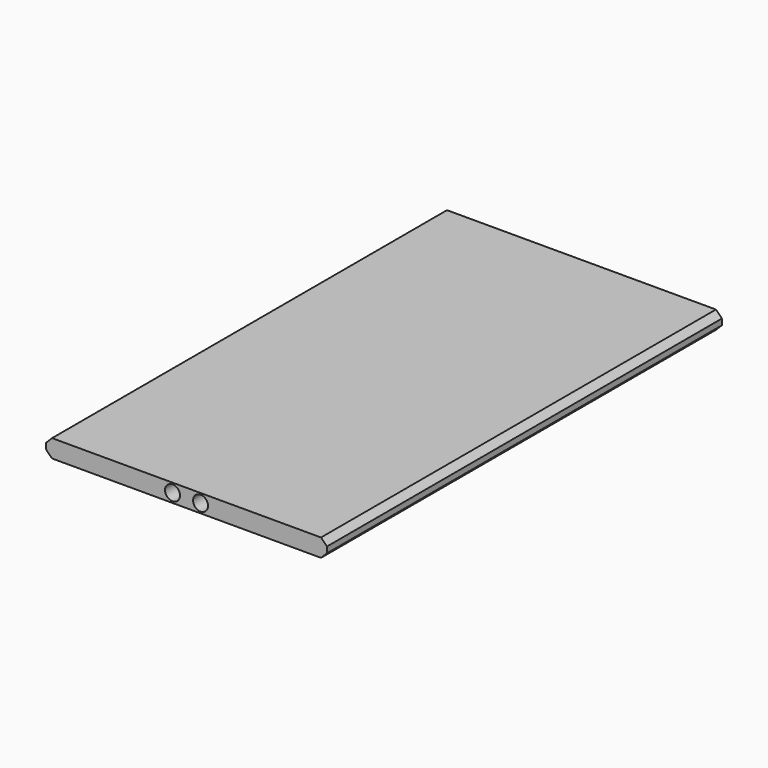
from build123d import *

# Parameters (mm, degrees)
F0_W     = 94
F0_H     = 165.2
F1_DEPTH = 6
F2_R     = 2.5
F3_DEPTH = 165.201
F4_SIZE  = 2


with BuildPart() as f1:
    # F0 (on Top) → F1 (new body)
    with BuildSketch(Plane.XY):
        with Locations((47, 82.6)):
            Rectangle(F0_W, F0_H)
    extrude(amount=F1_DEPTH)

    # F2 (on face) → F3 (cut, through all)
    with BuildSketch(Plane.XZ):
        with Locations((42.305, 3)):
            Circle(F2_R)
        with Locations((51.695, 3)):
            Circle(F2_R)
    extrude(amount=-F3_DEPTH, mode=Mode.SUBTRACT)

    # F4
    f4_edges = [f1.edges().sort_by_distance(p)[0] for p in [
        (0, 82.6, 6),
        (0, 82.6, 0),
        (94, 82.6, 6),
        (94, 82.6, 0),
    ]]
    chamfer(f4_edges, length=F4_SIZE)


solid = f1.part
